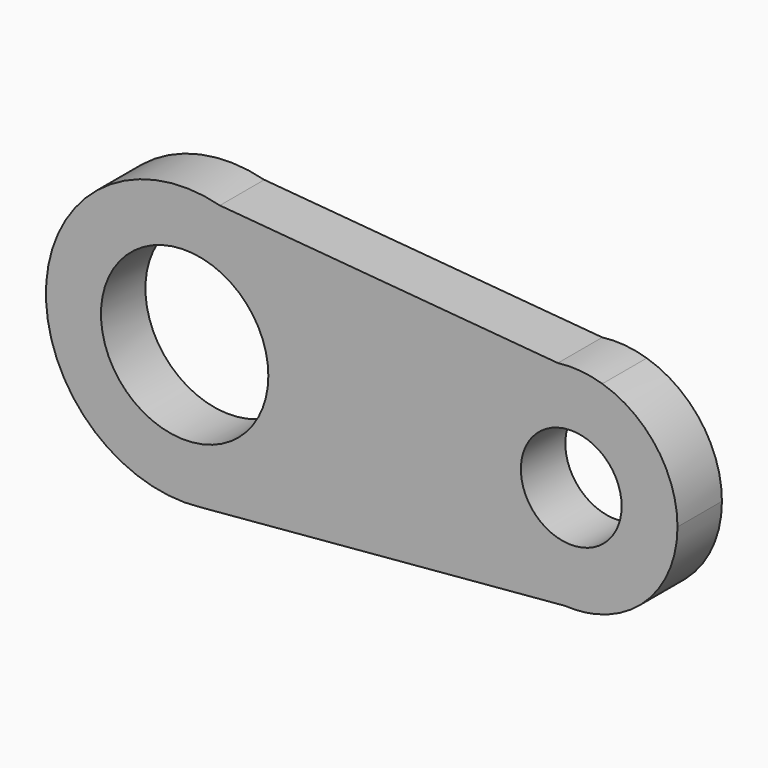
from build123d import *

# Parameters (mm, degrees)
F0_R     = 38.271353
F0_R_2   = 23.041523
F1_DEPTH = 25.4


with BuildPart() as f1:
    # F0 (on Front) → F1 (new body)
    with BuildSketch(Plane.XZ):
        with BuildLine():
            ThreePointArc((7.321217, -63.019584), (47.379063, -42.193513), (63.443425, 0))
            ThreePointArc((63.443425, 0), (50.22943, 38.756581), (16.091866, 61.368722))
            ThreePointArc((16.091866, 61.368722), (-63.2863, 4.462332), (7.321217, -63.019584))
        make_face()
        Circle(F0_R, mode=Mode.SUBTRACT)
        with BuildLine():
            ThreePointArc((16.091866, 61.368722), (50.22943, 38.756581), (63.443425, 0))
            ThreePointArc((63.443425, 0), (47.379063, -42.193513), (7.321217, -63.019584))
            Line((7.321217, -63.019584), (173.997428, -48.499508))
            ThreePointArc((173.997428, -48.499508), (128.24817, -1.674927), (170.661802, 48.191092))
            Line((170.661802, 48.191092), (16.091866, 61.368722))
        make_face()
        with BuildLine():
            Line((191.006617, 46.456625), (170.661802, 48.191092))
            ThreePointArc((170.661802, 48.191092), (128.24817, -1.674927), (173.997428, -48.499508))
            Line((173.997428, -48.499508), (187.946198, -47.284355))
            ThreePointArc((187.946198, -47.284355), (214.888771, -30.154212), (225.380082, 0))
            ThreePointArc((225.380082, 0), (215.852427, 28.895298), (191.006617, 46.456625))
        make_face()
        with Locations((176.799685, 0)):
            Circle(F0_R_2, mode=Mode.SUBTRACT)
        with BuildLine():
            ThreePointArc((191.006617, 46.456625), (180.926365, 48.404808), (170.661802, 48.191092))
            Line((170.661802, 48.191092), (191.006617, 46.456625))
        make_face()
        with BuildLine():
            Line((187.946198, -47.284355), (173.997428, -48.499508))
            ThreePointArc((173.997428, -48.499508), (181.01582, -48.397099), (187.946198, -47.284355))
        make_face()
    extrude(amount=F1_DEPTH)


solid = f1.part
